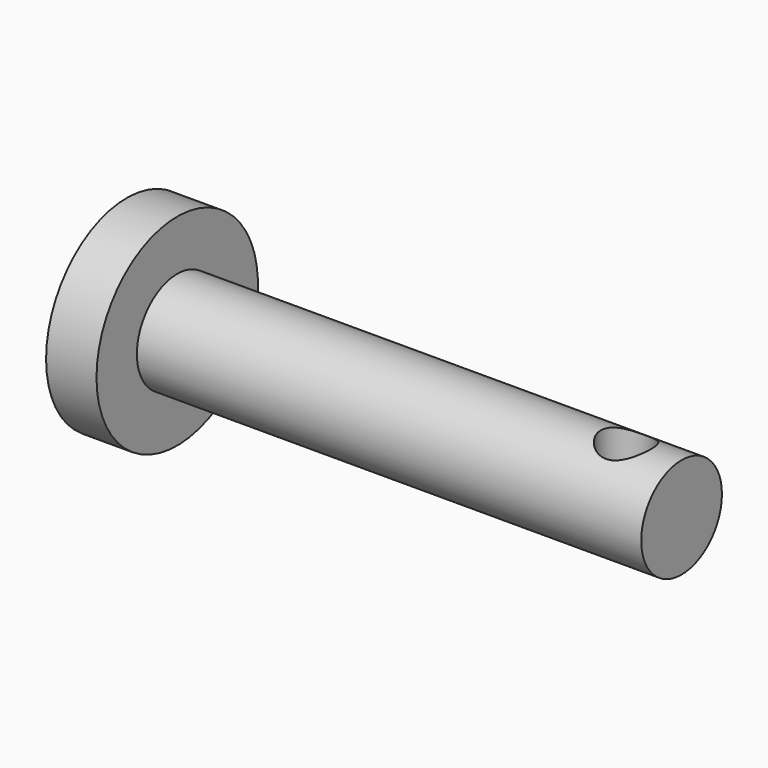
from build123d import *

# Parameters (mm, degrees)
F0_R     = 12.7
F1_DEPTH = 127
F2_R     = 25.4
F3_DEPTH = 12.7
F5_R     = 6.35
F6_DEPTH = 38.101


with BuildPart() as f1:
    # F0 (on Right) → F1 (new body)
    with BuildSketch(Plane.YZ):
        Circle(F0_R)
    extrude(amount=F1_DEPTH)

    # F2 (on face) → F3 (join)
    with BuildSketch(Plane(origin=(0, 0, 0), x_dir=(0, -1, 0), z_dir=(-1, 0, 0))):
        Circle(F2_R)
    extrude(amount=F3_DEPTH)

    # F5 (on offset) → F6 (cut, through all)
    with BuildSketch(Plane.XY.offset(12.7)):
        with Locations((113.03, 0)):
            Circle(F5_R)
    extrude(amount=-F6_DEPTH, mode=Mode.SUBTRACT)


solid = f1.part
